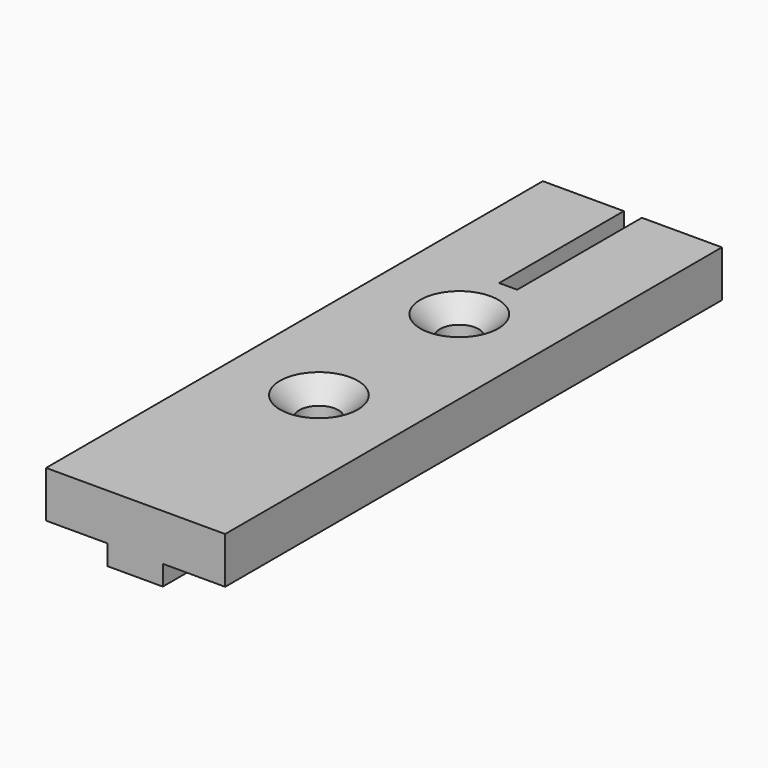
from build123d import *

# Parameters (mm, degrees)
F1_DEPTH       = 25
F2_DEPTH       = 2.1844
F3_DEPTH       = 25.4
F5_D           = 6.35
F5_CSINK_D     = 12.7
F5_CSINK_ANGLE = 90
F6_DEPTH       = 5.08
F7_DEPTH       = 25.4
F8_DEPTH       = 25.4
F9_DEPTH       = 4.064
F11_DEPTH      = 25.4


with BuildPart() as f1:
    # F0 (on Front) → F1 (new body)
    with BuildSketch(Plane.XZ):
        Polygon((29.1909072548, 0), (0, 0), (0, -7.5760227628), (12.1912453324, -7.5760227628), (12.1912453324, -10.8513226733), (18.013689667, -10.8513226733), (18.013689667, -7.5760227628), (29.1909072548, -7.5760227628), align=None)
    extrude(amount=F1_DEPTH)

    # F2 (add): a face of the model
    f2_faces = [f1.faces().sort_by_distance(p)[0] for p in [
        (12.1912453324, -12.5, -9.213672718),
    ]]
    extrude(f2_faces, amount=F2_DEPTH)

    # F3 (add): a face of the model
    f3_faces = [f1.faces().sort_by_distance(p)[0] for p in [
        (14.5334168429, 0, -4.3631968941),
    ]]
    extrude(f3_faces, amount=F3_DEPTH)

    # F5 (through all)
    with Locations(Plane.XY):
        with Locations((14.5954536274, 15.5374109745), (14.5954536274, -13.0615523085)):
            CounterSinkHole(F5_D / 2, F5_CSINK_D / 2, counter_sink_angle=F5_CSINK_ANGLE)

    # F6 (add): a face of the model
    f6_faces = [f1.faces().sort_by_distance(p)[0] for p in [
        (18.013689667, 0.2, -9.213672718),
    ]]
    extrude(f6_faces, amount=F6_DEPTH)

    # F7 (add): a face of the model
    f7_faces = [f1.faces().sort_by_distance(p)[0] for p in [
        (14.9128222173, -25, -4.6688801497),
    ]]
    extrude(f7_faces, amount=F7_DEPTH)

    # F8 (add): a face of the model
    f8_faces = [f1.faces().sort_by_distance(p)[0] for p in [
        (14.9128222173, 25.4, -4.6688801497),
    ]]
    extrude(f8_faces, amount=F8_DEPTH)

    # F9 (cut): a face of the model
    f9_faces = [f1.faces().sort_by_distance(p)[0] for p in [
        (23.093689667, 0.2, -9.213672718),
    ]]
    extrude(f9_faces, amount=-F9_DEPTH, mode=Mode.SUBTRACT)

    # F10 (on face) → F11 (cut)
    with BuildSketch(Plane(origin=(0, 50.8, 0), x_dir=(-1, 0, 0), z_dir=(0, 1, 0))):
        Polygon((-13.2008893415, 0), (-16.1421988159, 0), (-16.1421988159, -3.189817071), (-20.3907564282, -3.189817071), (-20.3907564282, -5.3957989439), (-9.4425510615, -5.3957989439), (-9.4425510615, -3.189817071), (-13.2008893415, -3.189817071), align=None)
    extrude(amount=-F11_DEPTH, mode=Mode.SUBTRACT)


solid = f1.part
